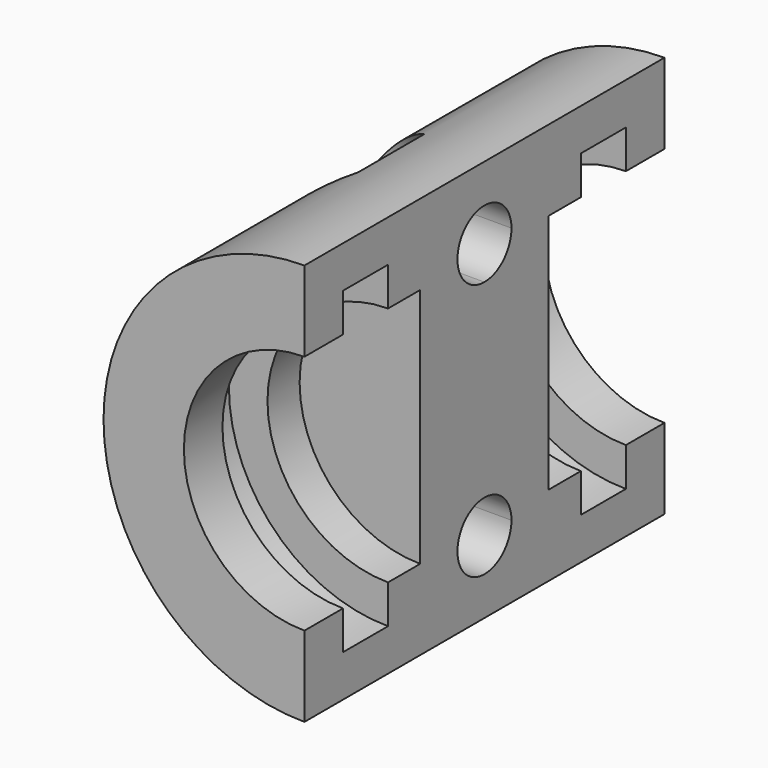
from build123d import *

# Parameters (mm, degrees)
F0_R      = 12.5
F0_R_2    = 7.5
F1_DEPTH  = 28
F2_W      = 3.5
F2_H      = 7.3783658981
F5_R      = 8.5
F6_DEPTH  = 5
F9_DEPTH  = 30
F10_DEPTH = 25
F12_START = -5.8
F11_R     = 4
F12_DEPTH = 19.2


with BuildPart() as f1:
    # F0 (on Front) → F1 (new body)
    with BuildSketch(Plane.XZ):
        Circle(F0_R)
        Circle(F0_R_2, mode=Mode.SUBTRACT)
    extrude(amount=F1_DEPTH)

    # F2 (on Right) → F3 (revolve, cut)
    with BuildSketch(Plane.YZ):
        with Locations((-23.25, 6.2108170509)):
            Rectangle(F2_W, F2_H)
        with Locations((-4.75, 6.2108170509)):
            Rectangle(F2_W, F2_H)
    revolve(axis=Axis((0, -29.1106614321, 0), (0, 1, 0)), mode=Mode.SUBTRACT)

    # F5 (on mid) → F6 (join, symmetric)
    with BuildSketch(Plane.XZ.offset(14)):
        Circle(F5_R)
    extrude(amount=F6_DEPTH, both=True)

    # F8 (on face) → F9 (cut)
    with BuildSketch(Plane.XZ.offset(28)):
        with BuildLine():
            Line((0, 12.5), (0, 7.5))
            ThreePointArc((0, 7.5), (5.3033008589, 5.3033008589), (7.5, 0))
            ThreePointArc((7.5, 0), (5.3033008589, -5.3033008589), (0, -7.5))
            Line((0, -7.5), (0, -12.5))
            ThreePointArc((0, -12.5), (8.8388347648, -8.8388347648), (12.5, 0))
            ThreePointArc((12.5, 0), (8.8388347648, 8.8388347648), (0, 12.5))
        make_face()
        with BuildLine():
            Line((0, 7.5), (0, -2.1648029558))
            Line((0, -2.1648029558), (0, -7.5))
            ThreePointArc((0, -7.5), (5.3033008589, -5.3033008589), (7.5, 0))
            ThreePointArc((7.5, 0), (5.3033008589, 5.3033008589), (0, 7.5))
        make_face()
    extrude(amount=-F9_DEPTH, mode=Mode.SUBTRACT)

    # F7 (on Right) → F10 (cut)
    with BuildSketch(Plane.YZ):
        with BuildLine():
            ThreePointArc((-11.9, -8), (-12.5150757595, -6.5150757595), (-14, -5.9))
            ThreePointArc((-14, -5.9), (-15.4849242405, -9.4849242405), (-11.9, -8))
        make_face()
        with BuildLine():
            ThreePointArc((-11.9, 8), (-15.4849242405, 9.4849242405), (-14, 5.9))
            ThreePointArc((-14, 5.9), (-12.5150757595, 6.5150757595), (-11.9, 8))
        make_face()
    extrude(amount=-F10_DEPTH, mode=Mode.SUBTRACT)

    # F11 (on Right) → F12 (cut)
    with BuildSketch(Plane.YZ.offset(F12_START)):
        with Locations((-14, -8)):
            Circle(F11_R)
        with Locations((-14, 8)):
            Circle(F11_R)
    extrude(amount=-F12_DEPTH, mode=Mode.SUBTRACT)


solid = f1.part
